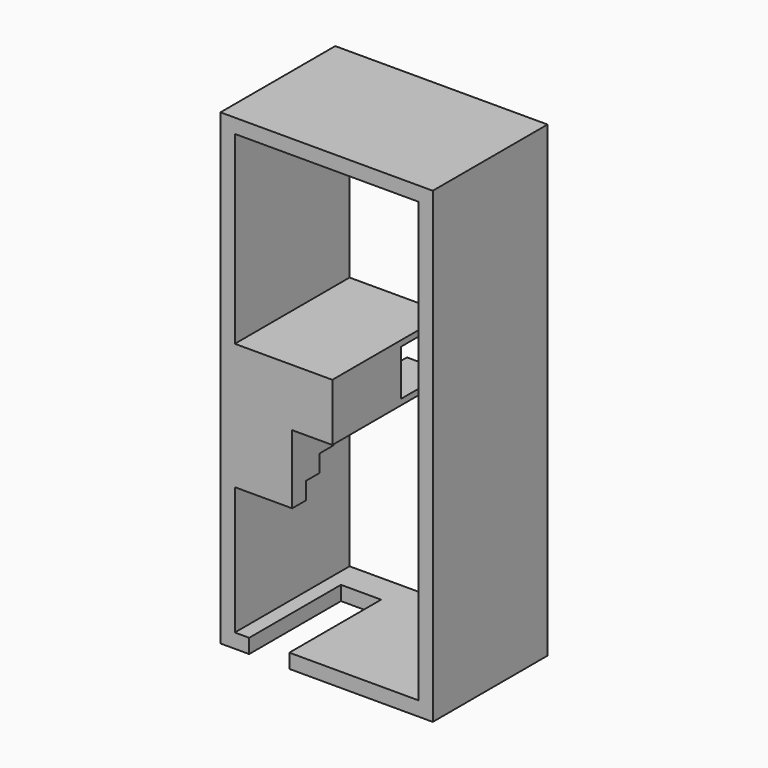
from build123d import *

# Parameters (mm, degrees)
F0_W      = 93.98
F0_H      = 207.01
F0_W_2    = 81.28
F0_H_2    = 87.122
F0_H_3    = 104.648
F1_DEPTH  = 63.5
F2_W      = 17.78
F2_H      = 50.8
F3_DEPTH  = 6.35
F4_W      = 25.4
F4_H      = 20.32
F5_DEPTH  = 38.1
F6_W      = 25.4
F6_H      = 25.4
F7_DEPTH  = 2.54
F9_DEPTH  = 25.4
F10_W     = 81.28
F10_H     = 2.54
F11_DEPTH = 63.5
F12_W     = 38.1
F12_H     = 50.8
F13_DEPTH = 25.4
F14_W     = 17.78
F14_H     = 20.32
F15_DEPTH = 38.1


with BuildPart() as f1:
    # F0 (on Front) → F1 (new body)
    with BuildSketch(Plane.XZ):
        with Locations((40.64, 97.155)):
            Rectangle(F0_W, F0_H)
        with Locations((40.64, 43.561)):
            Rectangle(F0_W_2, F0_H_2, mode=Mode.SUBTRACT)
        with Locations((40.64, 141.986)):
            Rectangle(F0_W_2, F0_H_3, mode=Mode.SUBTRACT)
    extrude(amount=F1_DEPTH)

    # F2 (on face) → F3 (cut, through all)
    with BuildSketch(Plane(origin=(0, 0, -6.35), x_dir=(1, 0, 0), z_dir=(0, 0, -1))):
        with Locations((15.24, 38.1)):
            Rectangle(F2_W, F2_H)
    extrude(amount=-F3_DEPTH, mode=Mode.SUBTRACT)

    # F4 (on face) → F5 (join)
    with BuildSketch(Plane.XZ.offset(63.5)):
        with Locations((12.7, 99.822)):
            Rectangle(F4_W, F4_H)
    extrude(amount=-F5_DEPTH)

    # F6 (on face) → F7 (cut, through all)
    with BuildSketch(Plane.XY.offset(89.662)):
        with Locations((12.7, -12.7)):
            Rectangle(F6_W, F6_H)
    extrude(amount=-F7_DEPTH, mode=Mode.SUBTRACT)

    # F8 (on face) → F9 (join, through all)
    with BuildSketch(Plane.YZ):
        Polygon((-33.02, 79.502), (-33.02, 87.122), (-63.5, 87.122), (-63.5, 56.642), (-55.88, 56.642), (-55.88, 64.262), (-48.26, 64.262), (-48.26, 71.882), (-40.64, 71.882), (-40.64, 79.502), align=None)
    extrude(amount=F9_DEPTH)

    # F10 (on face) → F11 (join, through all)
    with BuildSketch(Plane.XZ.offset(63.5)):
        with Locations((40.64, 111.252)):
            Rectangle(F10_W, F10_H)
    extrude(amount=-F11_DEPTH)

    # F12 (on face) → F13 (cut, through all)
    with BuildSketch(Plane(origin=(0, 0, 87.122), x_dir=(1, 0, 0), z_dir=(0, 0, -1))):
        with Locations((62.23, 38.1)):
            Rectangle(F12_W, F12_H)
    extrude(amount=-F13_DEPTH, mode=Mode.SUBTRACT)

    # F14 (on face) → F15 (join, through all)
    with BuildSketch(Plane.XZ.offset(63.5)):
        with Locations((34.29, 99.822)):
            Rectangle(F14_W, F14_H)
    extrude(amount=-F15_DEPTH)


solid = f1.part
